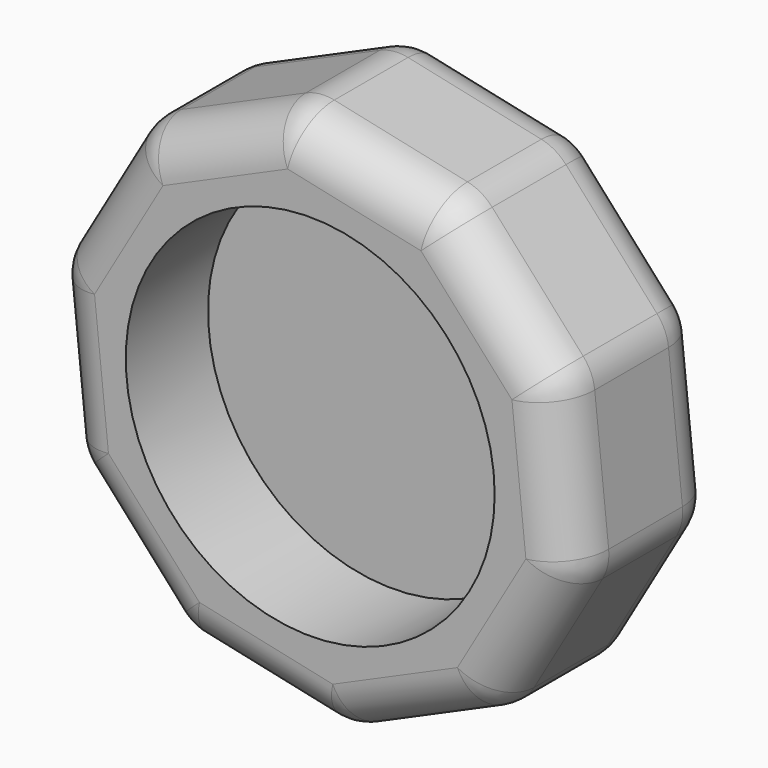
from build123d import *

# Parameters (mm, degrees)
F1_DEPTH = 20
F2_R     = 20
F3_DEPTH = 11.146497
F4_R     = 5


with BuildPart() as f1:
    # F0 (on Front) → F1 (new body)
    with BuildSketch(Plane.XZ):
        Polygon((26.680096, 11.804356), (14.646225, 25.232092), (-2.982007, 29.022026), (-19.471213, 21.726533), (-28.523077, 6.132242), (-26.680096, -11.804356), (-14.646225, -25.232092), (2.982007, -29.022026), (19.471213, -21.726533), (28.523077, -6.132242), align=None)
    extrude(amount=F1_DEPTH)

    # F2 (on face) → F3 (cut)
    with BuildSketch(Plane.XZ.offset(20)):
        Circle(F2_R)
    extrude(amount=-F3_DEPTH, mode=Mode.SUBTRACT)

    # F4
    f4_edges = [f1.edges().sort_by_distance(p)[0] for p in [
        (-11.22661, 0, 25.374279),
        (-19.471213, -10, 21.726533),
        (-28.523077, -10, 6.132242),
        (-23.997145, 0, 13.929387),
        (-23.997145, -20, 13.929387),
        (-26.680096, -10, -11.804356),
        (-27.601587, 0, -2.836057),
        (-27.601587, -20, -2.836057),
        (-20.66316, 0, -18.518224),
        (-14.646225, -10, -25.232092),
        (2.982007, -10, -29.022026),
        (-5.832109, 0, -27.127059),
        (-5.832109, -20, -27.127059),
        (19.471213, -10, -21.726533),
        (11.22661, 0, -25.374279),
        (11.22661, -20, -25.374279),
        (28.523077, -10, -6.132242),
        (23.997145, 0, -13.929387),
        (23.997145, -20, -13.929387),
        (26.680096, -10, 11.804356),
        (27.601587, 0, 2.836057),
        (27.601587, -20, 2.836057),
        (14.646225, -10, 25.232092),
        (20.66316, 0, 18.518224),
        (20.66316, -20, 18.518224),
        (-2.982007, -10, 29.022026),
        (5.832109, 0, 27.127059),
        (5.832109, -20, 27.127059),
        (-11.22661, -20, 25.374279),
        (-20.66316, -20, -18.518224),
    ]]
    fillet(f4_edges, radius=F4_R)


solid = f1.part
